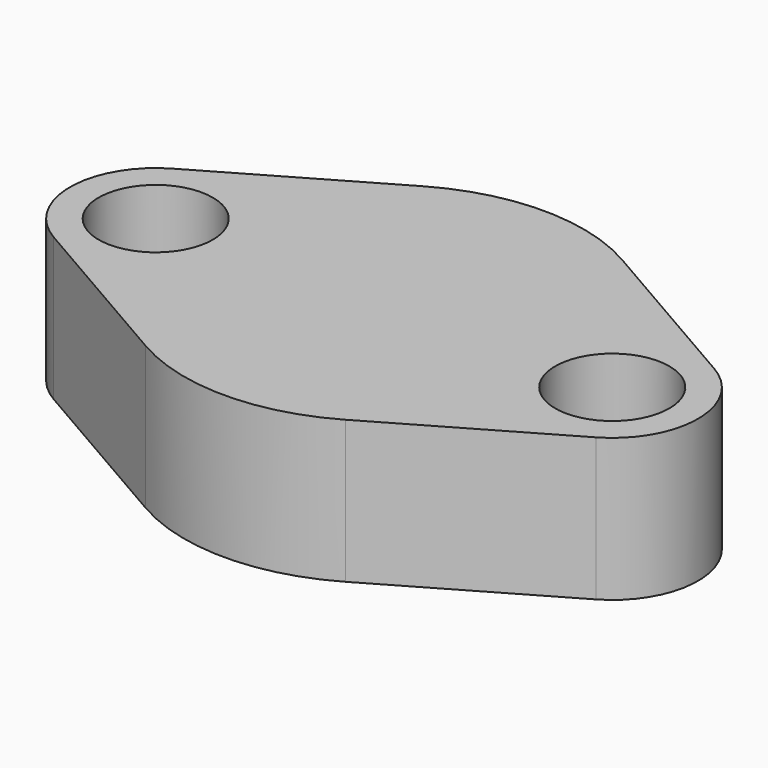
from build123d import *

# Parameters (mm, degrees)
F2_DEPTH = 25
F1_R     = 10
F3_DEPTH = 25


with BuildPart() as f2:
    # F0 (on Top) → F2 (new body)
    with BuildSketch(Plane.XY):
        with BuildLine():
            Line((-17.5, 30.310889), (-47.5, 12.990381))
            ThreePointArc((-47.5, 12.990381), (-55, 0), (-47.5, -12.990381))
            Line((-47.5, -12.990381), (-17.5, -30.310889))
            ThreePointArc((-17.5, -30.310889), (0, -35), (17.5, -30.310889))
            Line((17.5, -30.310889), (47.5, -12.990381))
            ThreePointArc((47.5, -12.990381), (55, 0), (47.5, 12.990381))
            Line((47.5, 12.990381), (17.5, 30.310889))
            ThreePointArc((17.5, 30.310889), (0, 35), (-17.5, 30.310889))
        make_face()
    extrude(amount=F2_DEPTH)

    # F1 (on face) → F3 (cut)
    with BuildSketch(Plane.XY):
        with Locations((40, 0)):
            Circle(F1_R)
        with Locations((-40, 0)):
            Circle(F1_R)
    extrude(amount=F3_DEPTH, mode=Mode.SUBTRACT)


solid = f2.part
